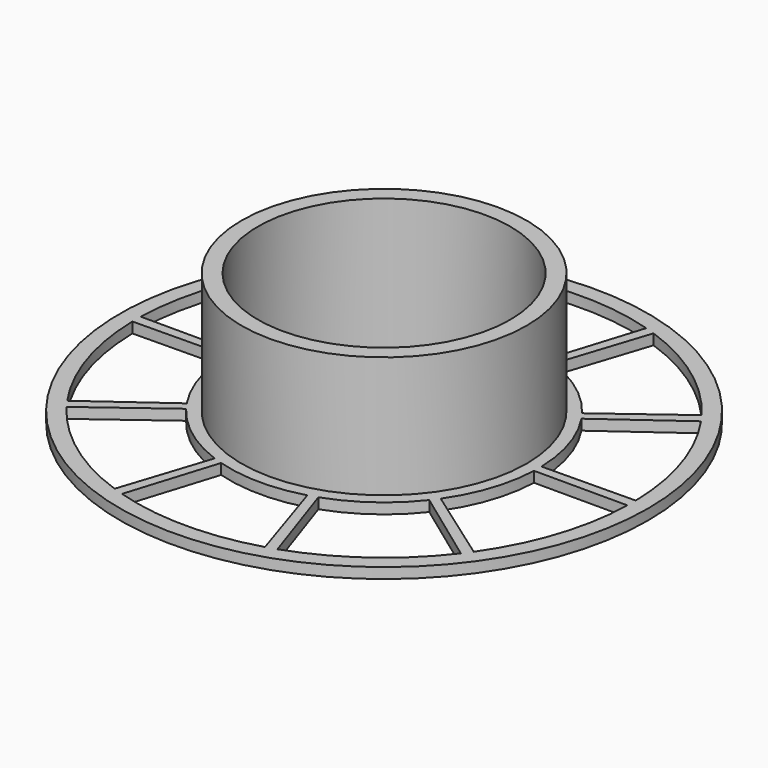
from build123d import *

# Parameters (mm, degrees)
F0_R     = 50
F0_R_2   = 27
F1_DEPTH = 2
F2_R     = 27
F2_R_2   = 23.9045
F3_DEPTH = 25


with BuildPart() as f1:
    # F0 (on Top) → F1 (new body)
    with BuildSketch(Plane.XY):
        Circle(F0_R)
        with BuildLine():
            ThreePointArc((46.986111, 0.863073), (46.992056, 0.431555), (46.994037, 0))
            ThreePointArc((46.994037, 0), (46.990732, -0.55736), (46.980816, -1.114641))
            ThreePointArc((46.980816, -1.114641), (44.654947, -14.641558), (38.519864, -26.919502))
            ThreePointArc((38.519864, -26.919502), (37.944888, -27.724087), (37.35311, -28.516394))
            ThreePointArc((37.35311, -28.516394), (27.520519, -38.092789), (15.340338, -44.419743))
            ThreePointArc((15.340338, -44.419743), (14.40225, -44.732703), (13.457784, -45.025855))
            ThreePointArc((13.457784, -45.025855), (-0.125812, -46.993869), (-13.698676, -44.953151))
            ThreePointArc((-13.698676, -44.953151), (-14.641558, -44.654947), (-15.577957, -44.336969))
            ThreePointArc((-15.577957, -44.336969), (-27.724087, -37.944888), (-37.505261, -28.315984))
            ThreePointArc((-37.505261, -28.315984), (-38.092789, -27.520519), (-38.663448, -26.712868))
            ThreePointArc((-38.663448, -26.712868), (-44.732703, -14.40225), (-46.986111, -0.863073))
            ThreePointArc((-46.986111, -0.863073), (-46.993869, 0.125812), (-46.980816, 1.114641))
            ThreePointArc((-46.980816, 1.114641), (-44.654947, 14.641558), (-38.519864, 26.919502))
            ThreePointArc((-38.519864, 26.919502), (-37.944888, 27.724087), (-37.35311, 28.516394))
            ThreePointArc((-37.35311, 28.516394), (-27.694062, 37.966807), (-15.745097, 44.277889))
            ThreePointArc((-15.745097, 44.277889), (-14.791119, 44.605631), (-13.830327, 44.912822))
            ThreePointArc((-13.830327, 44.912822), (-0.068845, 46.993987), (13.698676, 44.953151))
            ThreePointArc((13.698676, 44.953151), (14.641558, 44.654947), (15.577957, 44.336969))
            ThreePointArc((15.577957, 44.336969), (27.724087, 37.944888), (37.505261, 28.315984))
            ThreePointArc((37.505261, 28.315984), (38.092789, 27.520519), (38.663448, 26.712868))
            ThreePointArc((38.663448, 26.712868), (44.732703, 14.40225), (46.986111, 0.863073))
        make_face(mode=Mode.SUBTRACT)
        with BuildLine():
            ThreePointArc((29.29399, 0), (29.292167, 0.326733), (29.286701, 0.653426))
            ThreePointArc((29.286701, 0.653426), (27.928294, 8.840148), (24.328572, 16.317426))
            ThreePointArc((24.328572, 16.317426), (23.82963, 17.037798), (23.309365, 17.742924))
            ThreePointArc((23.309365, 17.742924), (17.398356, 23.567669), (10.091086, 27.501051))
            ThreePointArc((10.091086, 27.501051), (9.264009, 27.790573), (8.428643, 28.055228))
            ThreePointArc((8.428643, 28.055228), (0.228608, 29.293098), (-7.989748, 28.18336))
            ThreePointArc((-7.989748, 28.18336), (-8.955604, 27.891486), (-9.910836, 27.566522))
            ThreePointArc((-9.910836, 27.566522), (-17.140909, 23.755569), (-23.036737, 18.095485))
            ThreePointArc((-23.036737, 18.095485), (-23.567669, 17.398356), (-24.077513, 16.685658))
            ThreePointArc((-24.077513, 16.685658), (-27.790573, 9.264009), (-29.273371, 1.098901))
            ThreePointArc((-29.273371, 1.098901), (-29.293142, 0.222837), (-29.286701, -0.653426))
            ThreePointArc((-29.286701, -0.653426), (-27.928294, -8.840148), (-24.328572, -16.317426))
            ThreePointArc((-24.328572, -16.317426), (-23.82963, -17.037798), (-23.309365, -17.742924))
            ThreePointArc((-23.309365, -17.742924), (-17.398356, -23.567669), (-10.091086, -27.501051))
            ThreePointArc((-10.091086, -27.501051), (-9.264009, -27.790573), (-8.428643, -28.055228))
            ThreePointArc((-8.428643, -28.055228), (-0.222837, -29.293142), (8.000852, -28.180209))
            ThreePointArc((8.000852, -28.180209), (8.840148, -27.928294), (9.671534, -27.651388))
            ThreePointArc((9.671534, -27.651388), (17.037798, -23.82963), (23.036737, -18.095485))
            ThreePointArc((23.036737, -18.095485), (23.567669, -17.398356), (24.077513, -16.685658))
            ThreePointArc((24.077513, -16.685658), (27.790573, -9.264009), (29.273371, -1.098901))
            ThreePointArc((29.273371, -1.098901), (29.288834, -0.549547), (29.29399, 0))
        make_face()
        Circle(F0_R_2, mode=Mode.SUBTRACT)
        with BuildLine():
            Line((-7.989748, 28.18336), (-13.830327, 44.912822))
            ThreePointArc((-13.830327, 44.912822), (-14.791119, 44.605631), (-15.745097, 44.277889))
            Line((-15.745097, 44.277889), (-9.910836, 27.566522))
            ThreePointArc((-9.910836, 27.566522), (-8.955604, 27.891486), (-7.989748, 28.18336))
        make_face()
        with BuildLine():
            Line((-23.036737, 18.095485), (-37.35311, 28.516394))
            ThreePointArc((-37.35311, 28.516394), (-37.944888, 27.724087), (-38.519864, 26.919502))
            Line((-38.519864, 26.919502), (-24.077513, 16.685658))
            ThreePointArc((-24.077513, 16.685658), (-23.567669, 17.398356), (-23.036737, 18.095485))
        make_face()
        with BuildLine():
            Line((-29.273371, 1.098901), (-46.980816, 1.114641))
            ThreePointArc((-46.980816, 1.114641), (-46.993869, 0.125812), (-46.986111, -0.863073))
            Line((-46.986111, -0.863073), (-29.286701, -0.653426))
            ThreePointArc((-29.286701, -0.653426), (-29.293142, 0.222837), (-29.273371, 1.098901))
        make_face()
        with BuildLine():
            ThreePointArc((-38.663448, -26.712868), (-38.092789, -27.520519), (-37.505261, -28.315984))
            Line((-37.505261, -28.315984), (-23.309365, -17.742924))
            ThreePointArc((-23.309365, -17.742924), (-23.82963, -17.037798), (-24.328572, -16.317426))
            Line((-24.328572, -16.317426), (-38.663448, -26.712868))
        make_face()
        with BuildLine():
            ThreePointArc((-15.577957, -44.336969), (-14.641558, -44.654947), (-13.698676, -44.953151))
            Line((-13.698676, -44.953151), (-8.428643, -28.055228))
            ThreePointArc((-8.428643, -28.055228), (-9.264009, -27.790573), (-10.091086, -27.501051))
            Line((-10.091086, -27.501051), (-15.577957, -44.336969))
        make_face()
        with BuildLine():
            ThreePointArc((13.457784, -45.025855), (14.40225, -44.732703), (15.340338, -44.419743))
            Line((15.340338, -44.419743), (9.671534, -27.651388))
            ThreePointArc((9.671534, -27.651388), (8.840148, -27.928294), (8.000852, -28.180209))
            Line((8.000852, -28.180209), (13.457784, -45.025855))
        make_face()
        with BuildLine():
            ThreePointArc((37.35311, -28.516394), (37.944888, -27.724087), (38.519864, -26.919502))
            Line((38.519864, -26.919502), (24.077513, -16.685658))
            ThreePointArc((24.077513, -16.685658), (23.567669, -17.398356), (23.036737, -18.095485))
            Line((23.036737, -18.095485), (37.35311, -28.516394))
        make_face()
        with BuildLine():
            ThreePointArc((46.980816, -1.114641), (46.990732, -0.55736), (46.994037, 0))
            ThreePointArc((46.994037, 0), (46.992056, 0.431555), (46.986111, 0.863073))
            Line((46.986111, 0.863073), (29.286701, 0.653426))
            ThreePointArc((29.286701, 0.653426), (29.292167, 0.326733), (29.29399, 0))
            ThreePointArc((29.29399, 0), (29.288834, -0.549547), (29.273371, -1.098901))
            Line((29.273371, -1.098901), (46.980816, -1.114641))
        make_face()
        with BuildLine():
            Line((24.328572, 16.317426), (38.663448, 26.712868))
            ThreePointArc((38.663448, 26.712868), (38.092789, 27.520519), (37.505261, 28.315984))
            Line((37.505261, 28.315984), (23.309365, 17.742924))
            ThreePointArc((23.309365, 17.742924), (23.82963, 17.037798), (24.328572, 16.317426))
        make_face()
        with BuildLine():
            Line((10.091086, 27.501051), (15.577957, 44.336969))
            ThreePointArc((15.577957, 44.336969), (14.641558, 44.654947), (13.698676, 44.953151))
            Line((13.698676, 44.953151), (8.428643, 28.055228))
            ThreePointArc((8.428643, 28.055228), (9.264009, 27.790573), (10.091086, 27.501051))
        make_face()
    extrude(amount=F1_DEPTH)

    # F2 (on Top) → F3 (join)
    with BuildSketch(Plane.XY):
        Circle(F2_R)
        Circle(F2_R_2, mode=Mode.SUBTRACT)
    extrude(amount=F3_DEPTH)


solid = f1.part
